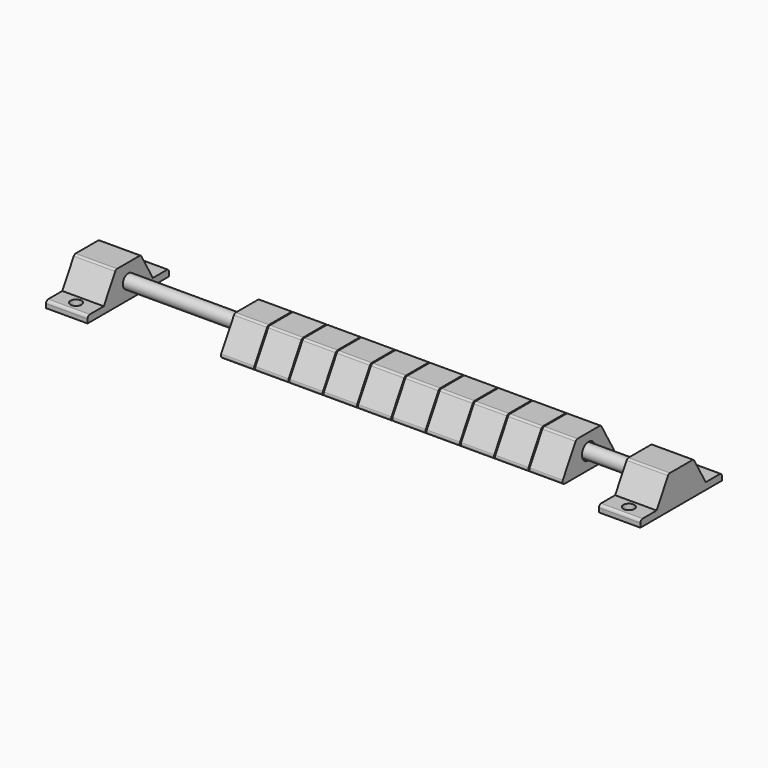
from build123d import *

# Parameters (mm, degrees)
F0_R      = 3.81
F1_DEPTH  = 15.24
F2_R      = 1.27
F3_R      = 3.175
F4_DEPTH  = 127
F10_DEPTH = 9.525
F11_R     = 1.27
F12_DEPTH = 25.4
F13_DEPTH = 5.08
F14_R     = 2.54
F15_DEPTH = 25.4


with BuildPart() as f1:
    # F0 (on Right) → F1 (new body)
    with BuildSketch(Plane.YZ):
        Polygon((-41.0090636508, 15.24), (-49.8078817532, 0), (-18.0578817532, 0), (-26.8566998557, 15.24), align=None)
        with Locations((-33.9328817532, 7.62)):
            Circle(F0_R, mode=Mode.SUBTRACT)
    extrude(amount=F1_DEPTH)

    # F2
    f2_edges = [f1.edges().sort_by_distance(p)[0] for p in [
        (7.62, -41.009064, 15.24),
        (7.62, -26.8567, 15.24),
        (7.62, -18.057882, 0),
        (7.62, -49.807882, 0),
    ]]
    fillet(f2_edges, radius=F2_R)


with BuildPart() as f4:
    # F3 (on Right) → F4 (new body, symmetric)
    with BuildSketch(Plane.YZ):
        with Locations((-33.9328817532, 7.62)):
            Circle(F3_R)
    extrude(amount=F4_DEPTH, both=True)


with BuildPart() as f5_1:
    # F5: copy of F1
    add(f1.part.moved(Location((15.748, 0, 0))))


with BuildPart() as f6_1:
    # F6: copy of F1
    add(f1.part.moved(Location((31.496, 0, 0))))


with BuildPart() as f6_2:
    # F6: copy of F5_1
    add(f5_1.part.moved(Location((31.496, 0, 0))))


with BuildPart() as f7_1:
    # F7: copy of F1
    add(f1.part.moved(Location((-62.992, 0, 0))))


with BuildPart() as f7_2:
    # F7: copy of F5_1
    add(f5_1.part.moved(Location((-62.992, 0, 0))))


with BuildPart() as f7_3:
    # F7: copy of F6_1
    add(f6_1.part.moved(Location((-62.992, 0, 0))))


with BuildPart() as f7_4:
    # F7: copy of F6_2
    add(f6_2.part.moved(Location((-62.992, 0, 0))))


with BuildPart() as f8_1:
    # F8: copy of F1
    add(f1.part.moved(Location((62.992, 0, 0))))


with BuildPart() as f8_2:
    # F8: copy of F5_1
    add(f5_1.part.moved(Location((62.992, 0, 0))))


with BuildPart() as f10:
    # F9 (on face) → F10 (new body, symmetric)
    with BuildSketch(Plane.YZ.offset(127)):
        with BuildLine():
            Line((-33.9328817532, 4.445), (-33.9328817532, 0))
            Line((-33.9328817532, 0), (-10.5156004429, 0))
            Line((-10.5156004429, 0), (-10.5156004429, 3.175))
            Line((-10.5156004429, 3.175), (-19.8443494737, 3.175))
            Line((-19.8443494737, 3.175), (-26.7715398222, 15.24))
            Line((-26.7715398222, 15.24), (-33.9328817532, 15.24))
            Line((-33.9328817532, 15.24), (-33.9328817532, 10.795))
            ThreePointArc((-33.9328817532, 10.795), (-31.687817723, 9.8650640303), (-30.7578817532, 7.62))
            ThreePointArc((-30.7578817532, 7.62), (-31.687817723, 5.3749359697), (-33.9328817532, 4.445))
        make_face()
        with BuildLine():
            Line((-57.3501630636, 0), (-33.9328817532, 0))
            Line((-33.9328817532, 0), (-33.9328817532, 4.445))
            ThreePointArc((-33.9328817532, 4.445), (-37.1078817532, 7.62), (-33.9328817532, 10.795))
            Line((-33.9328817532, 10.795), (-33.9328817532, 15.24))
            Line((-33.9328817532, 15.24), (-41.0942236842, 15.24))
            Line((-41.0942236842, 15.24), (-48.0214140327, 3.175))
            Line((-48.0214140327, 3.175), (-57.3501630636, 3.175))
            Line((-57.3501630636, 3.175), (-57.3501630636, 0))
        make_face()
        with BuildLine():
            ThreePointArc((-33.9328817532, 10.795), (-37.1078817532, 7.62), (-33.9328817532, 4.445))
            Line((-33.9328817532, 4.445), (-33.9328817532, 10.795))
        make_face()
        with BuildLine():
            Line((-33.9328817532, 10.795), (-33.9328817532, 4.445))
            ThreePointArc((-33.9328817532, 4.445), (-31.687817723, 5.3749359697), (-30.7578817532, 7.62))
            ThreePointArc((-30.7578817532, 7.62), (-31.687817723, 9.8650640303), (-33.9328817532, 10.795))
        make_face()
    extrude(amount=F10_DEPTH, both=True)

    # F11
    f11_edges = [f10.edges().sort_by_distance(p)[0] for p in [
        (127, -41.094224, 15.24),
        (127, -26.77154, 15.24),
        (127, -10.5156, 3.175),
        (127, -57.350163, 3.175),
    ]]
    fillet(f11_edges, radius=F11_R)

    # F12 (cut): a face of the model
    f12_faces = [f4.part.faces().sort_by_distance(p)[0] for p in [
        (127, -33.9328817532, 7.62),
    ]]
    extrude(f12_faces, amount=-F12_DEPTH, mode=Mode.SUBTRACT)

    # F13 (cut): a face of the model
    f13_faces = [f10.faces().sort_by_distance(p)[0] for p in [
        (127, -33.9328817532, 7.62),
    ]]
    extrude(f13_faces, amount=-F13_DEPTH, mode=Mode.SUBTRACT)

    # F14 (on face) → F15 (cut)
    with BuildSketch(Plane.XY.offset(3.175)):
        with Locations((127, -15.8149749583)):
            Circle(F14_R)
        with Locations((127, -52.0507885482)):
            Circle(F14_R)
    extrude(amount=-F15_DEPTH, mode=Mode.SUBTRACT)


with BuildPart() as f16_1:
    # F16: instance of F10
    add(f10.part.mirror(Plane.YZ))


solid = Compound([f1.part, f4.part, f5_1.part, f6_1.part, f6_2.part, f7_1.part, f7_2.part, f7_3.part, f7_4.part, f8_1.part, f8_2.part, f10.part, f16_1.part])
